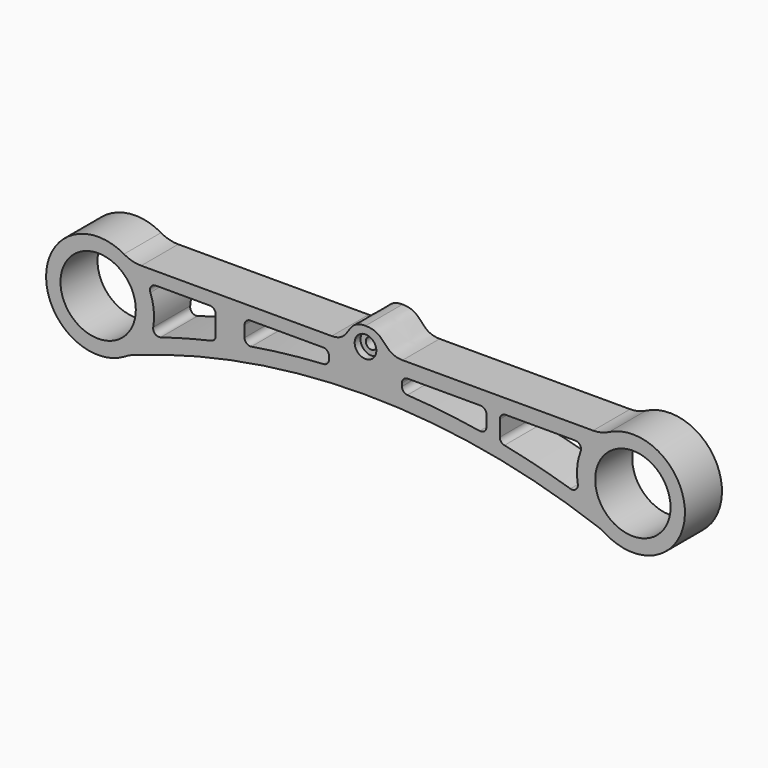
from build123d import *

# Parameters (mm, degrees)
F0_R     = 20.6756
F0_R_2   = 5.9436
F1_DEPTH = 25.4
F0_R_3   = 3.0734
F2_DEPTH = 21.3868


with BuildPart() as f1:
    # F0 (on Front) → F1 (new body)
    with BuildSketch(Plane.XZ):
        with BuildLine():
            Line((271.580863, 23.272072), (167.052843, 23.272072))
            add(Edge.make_bspline(
                [(146.7104, 33.279704), (158.211127, 33.278), (155.84334, 23.444525), (167.052843, 23.272072)],
                knots=[0, 0, 0, 0, 22.670855, 22.670855, 22.670855, 22.670855], degree=3))
            add(Edge.make_bspline(
                [(146.7104, 33.279704), (135.209673, 33.278), (139.371195, 22.469644), (128.161692, 22.297191)],
                knots=[0, 0, 0, 0, 21.55621, 21.55621, 21.55621, 21.55621], degree=3))
            Line((128.161692, 22.297191), (23.633672, 22.297191))
            ThreePointArc((23.633672, 22.297191), (18.743023, 22.935671), (14.180203, 24.808314))
            ThreePointArc((14.180203, 24.808314), (-28.570281, -0.519307), (15.072395, -24.276605))
            ThreePointArc((15.072395, -24.276605), (16.798322, -23.325045), (18.613326, -22.556899))
            ThreePointArc((18.613326, -22.556899), (81.676421, -5.682276), (146.7104, 0))
            ThreePointArc((146.7104, 0), (211.744379, -5.682276), (274.807474, -22.556899))
            ThreePointArc((274.807474, -22.556899), (276.622478, -23.325045), (278.348405, -24.276605))
            ThreePointArc((278.348405, -24.276605), (321.973387, -1.131548), (280.316838, 25.393243))
            ThreePointArc((280.316838, 25.393243), (276.075766, 23.809958), (271.580863, 23.272072))
        make_face()
        Circle(F0_R, mode=Mode.SUBTRACT)
        with Locations((293.4208, 0)):
            Circle(F0_R, mode=Mode.SUBTRACT)
        with BuildLine():
            ThreePointArc((61.316134, 15.272072), (63.561198, 14.342136), (64.491134, 12.097072))
            Line((64.491134, 12.097072), (64.491134, 1.615122))
            ThreePointArc((64.491134, 1.615122), (63.797035, -0.36623), (62.018216, -1.48128))
            ThreePointArc((62.018216, -1.48128), (48.077329, -4.918229), (34.275062, -8.875302))
            ThreePointArc((34.275062, -8.875302), (31.242012, -8.220636), (30.215605, -5.292417))
            ThreePointArc((30.215605, -5.292417), (30.534281, 2.941109), (28.649913, 10.962433))
            ThreePointArc((28.649913, 10.962433), (28.999613, 13.896814), (31.615249, 15.272072))
            Line((31.615249, 15.272072), (61.316134, 15.272072))
        make_face(mode=Mode.SUBTRACT)
        with BuildLine():
            Line((83.525193, 15.272072), (123.526418, 15.272072))
            ThreePointArc((123.526418, 15.272072), (125.771482, 14.342136), (126.701418, 12.097072))
            Line((126.701418, 12.097072), (126.701418, 10.478448))
            ThreePointArc((126.701418, 10.478448), (125.837891, 8.301818), (123.717029, 7.309174))
            ThreePointArc((123.717029, 7.309174), (103.822564, 5.591163), (84.044681, 2.8386))
            ThreePointArc((84.044681, 2.8386), (81.471994, 3.549037), (80.350193, 5.970813))
            Line((80.350193, 5.970813), (80.350193, 12.097072))
            ThreePointArc((80.350193, 12.097072), (81.280129, 14.342136), (83.525193, 15.272072))
        make_face(mode=Mode.SUBTRACT)
        with Locations((146.7104, 23.1902)):
            Circle(F0_R_2, mode=Mode.SUBTRACT)
        with BuildLine():
            ThreePointArc((213.070607, 5.970813), (211.948806, 3.549037), (209.376119, 2.8386))
            ThreePointArc((209.376119, 2.8386), (189.598236, 5.591163), (169.703771, 7.309174))
            ThreePointArc((169.703771, 7.309174), (167.582909, 8.301818), (166.719382, 10.478448))
            Line((166.719382, 10.478448), (166.719382, 12.097072))
            ThreePointArc((166.719382, 12.097072), (167.649318, 14.342136), (169.894382, 15.272072))
            Line((169.894382, 15.272072), (209.895607, 15.272072))
            ThreePointArc((209.895607, 15.272072), (212.140671, 14.342136), (213.070607, 12.097072))
            Line((213.070607, 12.097072), (213.070607, 5.970813))
        make_face(mode=Mode.SUBTRACT)
        with BuildLine():
            ThreePointArc((261.805551, 15.272072), (264.421187, 13.896814), (264.770887, 10.962433))
            ThreePointArc((264.770887, 10.962433), (262.886519, 2.941109), (263.205195, -5.292417))
            ThreePointArc((263.205195, -5.292417), (262.178788, -8.220636), (259.145738, -8.875302))
            ThreePointArc((259.145738, -8.875302), (241.164238, -3.829591), (222.958148, 0.333559))
            ThreePointArc((222.958148, 0.333559), (221.131826, 1.435806), (220.415228, 3.445006))
            Line((220.415228, 3.445006), (220.415228, 12.097072))
            ThreePointArc((220.415228, 12.097072), (221.345164, 14.342136), (223.590228, 15.272072))
            Line((223.590228, 15.272072), (261.805551, 15.272072))
        make_face(mode=Mode.SUBTRACT)
    extrude(amount=F1_DEPTH)

    # F0 (on Front) → F2 (join)
    with BuildSketch(Plane.XZ):
        with Locations((146.7104, 23.1902)):
            Circle(F0_R_2)
        with Locations((146.7104, 23.1902)):
            Circle(F0_R_3, mode=Mode.SUBTRACT)
    extrude(amount=F2_DEPTH)


solid = f1.part
